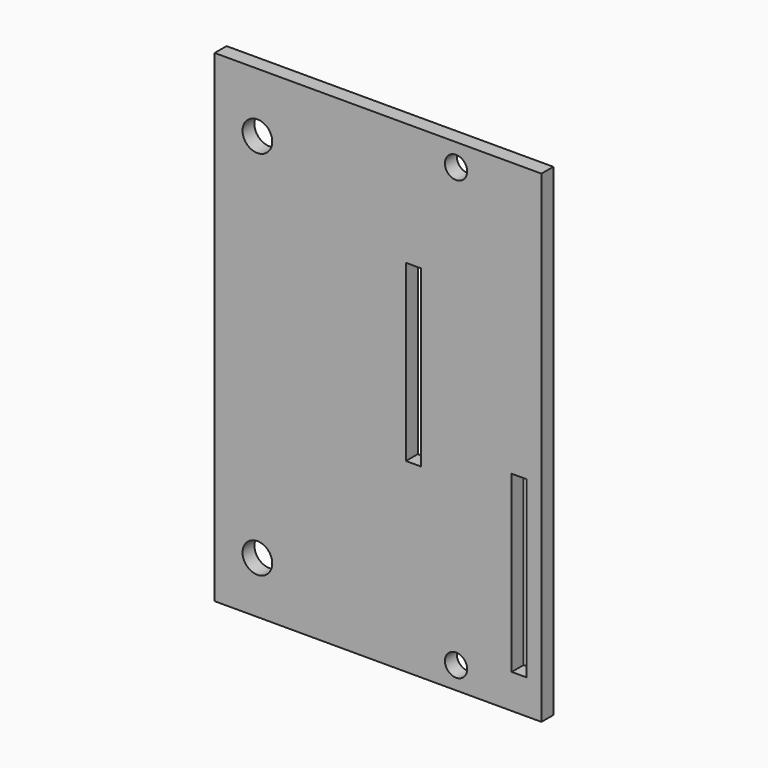
from build123d import *

# Parameters (mm, degrees)
F0_W     = 88
F0_H     = 130
F0_R     = 4
F0_R_2   = 3
F0_W_2   = 4
F0_H_2   = 47
F1_DEPTH = 4


with BuildPart() as f1:
    # F0 (on Front) → F1 (new body)
    with BuildSketch(Plane.XZ):
        with Locations((44, 65)):
            Rectangle(F0_W, F0_H)
        with Locations((11.5, 14)):
            Circle(F0_R, mode=Mode.SUBTRACT)
        with Locations((65, 6)):
            Circle(F0_R_2, mode=Mode.SUBTRACT)
        with Locations((82, 32.75)):
            Rectangle(F0_W_2, F0_H_2, mode=Mode.SUBTRACT)
        with Locations((11.5, 114)):
            Circle(F0_R, mode=Mode.SUBTRACT)
        with Locations((53.5, 73.5)):
            Rectangle(F0_W_2, F0_H_2, mode=Mode.SUBTRACT)
        with Locations((65, 124)):
            Circle(F0_R_2, mode=Mode.SUBTRACT)
    extrude(amount=F1_DEPTH)


solid = f1.part
